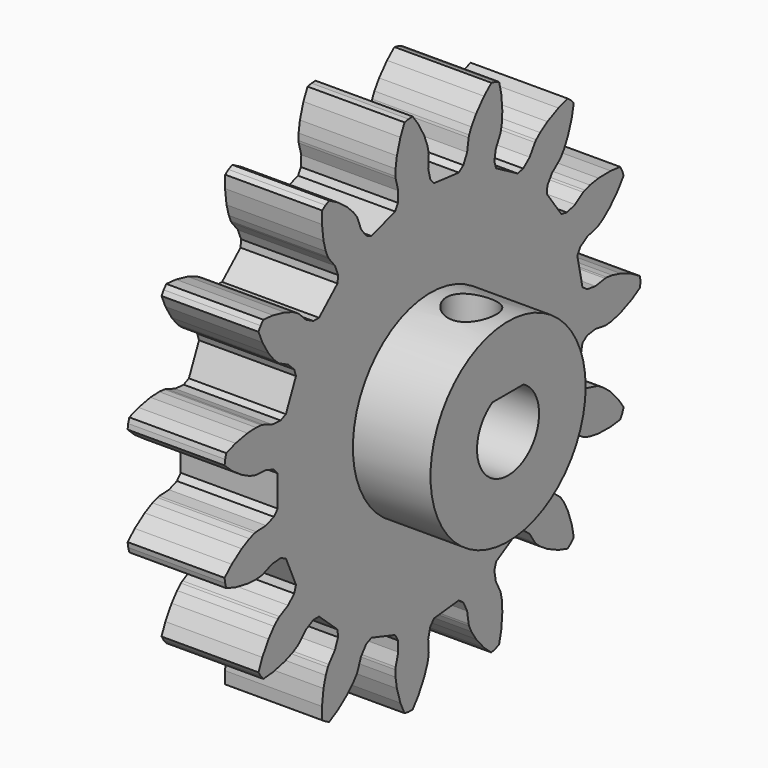
from build123d import *

# Parameters (mm, degrees)
F1_DEPTH = 12.7
F2_R     = 12.7
F3_DEPTH = 10.16
F4_R     = 3.175
F5_DEPTH = 25.4


with BuildPart() as f1:
    # F0 (on Right) → F1 (new body)
    with BuildSketch(Plane.YZ):
        Polygon((29.161105, -14.757578), (30.748224, -14.566036), (31.061889, -13.976096), (31.290412, -13.348259), (30.370755, -12.040616), (29.01536, -10.593121), (27.907767, -9.700006), (27.167434, -9.257233), (26.88877, -9.139631), (25.349098, -8.730488), (24.179454, -7.996199), (23.708233, -7.188454), (24.553926, -3.209823), (25.312929, -2.663571), (26.680109, -2.468499), (28.253106, -2.720975), (28.555493, -2.726868), (29.41193, -2.623515), (30.787035, -2.258085), (32.614006, -1.487043), (33.985987, -0.666521), (34.032596, 0), (33.985987, 0.666521), (32.614006, 1.487043), (30.787035, 2.258085), (29.41193, 2.623515), (28.555493, 2.726868), (28.253106, 2.720975), (26.680109, 2.468499), (25.312929, 2.663571), (24.553926, 3.209823), (23.708233, 7.188454), (24.179454, 7.996199), (25.349098, 8.730488), (26.88877, 9.139631), (27.167434, 9.257233), (27.907767, 9.700006), (29.01536, 10.593121), (30.370755, 12.040616), (31.290412, 13.348259), (31.061889, 13.976096), (30.748224, 14.566036), (29.161105, 14.757578), (27.178457, 14.718868), (25.773609, 14.493392), (24.949175, 14.239494), (24.675338, 14.111097), (23.341025, 13.240664), (22.012707, 12.862789), (21.097138, 13.053085), (18.706313, 16.343782), (18.808243, 17.273346), (19.578091, 18.419902), (20.818246, 19.419926), (21.024977, 19.640677), (21.521217, 20.346289), (22.169806, 21.612708), (22.819284, 23.486364), (23.127538, 25.054992), (22.663429, 25.535611), (22.136913, 25.946964), (20.609103, 25.476403), (18.813602, 24.634647), (17.621936, 23.857255), (16.972051, 23.289971), (16.774109, 23.061295), (15.909188, 21.723401), (14.849399, 20.837906), (13.935583, 20.63938), (10.413009, 22.673132), (10.128047, 23.563783), (10.365003, 24.924334), (11.091189, 26.342315), (11.190249, 26.62809), (11.356594, 27.474545), (11.433988, 28.895269), (11.26523, 30.871084), (10.908843, 32.429501), (10.289362, 32.679767), (9.641053, 32.841413), (8.436712, 31.790132), (7.138848, 30.290846), (6.366383, 29.095954), (6.003417, 28.31338), (5.915584, 28.023972), (5.66961, 26.44996), (5.06161, 25.209957), (4.307561, 24.656898), (0.262331, 25.082068), (-0.360274, 25.779832), (-0.697179, 27.119123), (-0.610514, 28.709899), (-0.636245, 29.011245), (-0.828573, 29.852188), (-1.335735, 31.181548), (-2.293518, 32.917917), (-3.252978, 34.19663), (-3.920719, 34.173312), (-4.578706, 34.057285), (-5.251323, 32.607047), (-5.827166, 30.709489), (-6.046851, 29.303726), (-6.060135, 28.441167), (-6.022645, 28.141066), (-5.607152, 26.603071), (-5.658231, 25.222987), (-6.122162, 24.411051), (-9.990607, 23.154107), (-10.843158, 23.538307), (-11.695684, 24.624792), (-12.263552, 26.113257), (-12.409627, 26.378103), (-12.927355, 27.068094), (-13.931367, 28.076271), (-15.512618, 29.272941), (-16.909212, 30.050867), (-17.509719, 29.75798), (-18.063642, 29.384371), (-18.088229, 27.785898), (-17.842509, 25.818186), (-17.471415, 24.444579), (-17.132706, 23.651235), (-16.976395, 23.392282), (-15.971266, 22.156293), (-15.456611, 20.874736), (-15.550185, 19.944283), (-18.572937, 17.222597), (-19.508038, 17.226788), (-20.728788, 17.872583), (-21.852966, 19.00141), (-22.094139, 19.183934), (-22.847757, 19.60372), (-24.175034, 20.116343), (-26.106298, 20.566431), (-27.698548, 20.709026), (-28.128036, 20.197216), (-28.482087, 19.630593), (-27.854402, 18.16034), (-26.829563, 16.46268), (-25.931876, 15.35877), (-25.299772, 14.771751), (-25.051664, 14.598802), (-23.630687, 13.878458), (-22.639274, 12.917043), (-22.34631, 12.028983), (-24.000714, 8.313115), (-24.856694, 7.936611), (-26.234568, 8.030058), (-27.720696, 8.604047), (-28.01526, 8.672703), (-28.874441, 8.749665), (-30.295469, 8.678139), (-32.242836, 8.303768), (-33.755457, 7.786421), (-33.939607, 7.144156), (-34.032596, 6.482537), (-32.861174, 5.394681), (-31.234456, 4.260621), (-29.965371, 3.61729), (-29.149142, 3.338119), (-28.852139, 3.28102), (-27.261033, 3.200933), (-25.964286, 2.725877), (-25.335433, 2.033753), (-25.335433, -2.033753), (-25.964286, -2.725877), (-27.261033, -3.200933), (-28.852139, -3.28102), (-29.149142, -3.338119), (-29.965371, -3.61729), (-31.234456, -4.260621), (-32.861174, -5.394681), (-34.032596, -6.482537), (-33.939607, -7.144156), (-33.755457, -7.786421), (-32.242836, -8.303768), (-30.295469, -8.678139), (-28.874441, -8.749665), (-28.01526, -8.672703), (-27.720696, -8.604047), (-26.234568, -8.030058), (-24.856694, -7.936611), (-24.000714, -8.313115), (-22.34631, -12.028983), (-22.639274, -12.917043), (-23.630687, -13.878458), (-25.051664, -14.598802), (-25.299772, -14.771751), (-25.931876, -15.35877), (-26.829563, -16.46268), (-27.854402, -18.16034), (-28.482087, -19.630593), (-28.128036, -20.197216), (-27.698548, -20.709026), (-26.106298, -20.566431), (-24.175034, -20.116343), (-22.847757, -19.60372), (-22.094139, -19.183934), (-21.852966, -19.00141), (-20.728788, -17.872583), (-19.508038, -17.226788), (-18.572937, -17.222597), (-15.550185, -19.944283), (-15.456611, -20.874736), (-15.971266, -22.156293), (-16.976395, -23.392282), (-17.132706, -23.651235), (-17.471415, -24.444579), (-17.842509, -25.818186), (-18.088229, -27.785898), (-18.063642, -29.384371), (-17.509719, -29.75798), (-16.909212, -30.050867), (-15.512618, -29.272941), (-13.931367, -28.076271), (-12.927355, -27.068094), (-12.409627, -26.378103), (-12.263552, -26.113257), (-11.695684, -24.624792), (-10.843158, -23.538307), (-9.990607, -23.154107), (-6.122162, -24.411051), (-5.658231, -25.222987), (-5.607152, -26.603071), (-6.022645, -28.141066), (-6.060135, -28.441167), (-6.046851, -29.303726), (-5.827166, -30.709489), (-5.251323, -32.607047), (-4.578706, -34.057285), (-3.920719, -34.173312), (-3.252978, -34.19663), (-2.293518, -32.917917), (-1.335735, -31.181548), (-0.828573, -29.852188), (-0.636245, -29.011245), (-0.610514, -28.709899), (-0.697179, -27.119123), (-0.360274, -25.779832), (0.262331, -25.082068), (4.307561, -24.656898), (5.06161, -25.209957), (5.66961, -26.44996), (5.915584, -28.023972), (6.003417, -28.31338), (6.366383, -29.095954), (7.138848, -30.290846), (8.436712, -31.790132), (9.641053, -32.841413), (10.289362, -32.679767), (10.908843, -32.429501), (11.26523, -30.871084), (11.433988, -28.895269), (11.356594, -27.474545), (11.190249, -26.62809), (11.091189, -26.342315), (10.365003, -24.924334), (10.128047, -23.563783), (10.413009, -22.673132), (13.935583, -20.63938), (14.849399, -20.837906), (15.909188, -21.723401), (16.774109, -23.061295), (16.972051, -23.289971), (17.621936, -23.857255), (18.813602, -24.634647), (20.609103, -25.476403), (22.136913, -25.946964), (22.663429, -25.535611), (23.127538, -25.054992), (22.819284, -23.486364), (22.169806, -21.612708), (21.521217, -20.346289), (21.024977, -19.640677), (20.818246, -19.419926), (19.578091, -18.419902), (18.808243, -17.273346), (18.706313, -16.343782), (21.097138, -13.053085), (22.012707, -12.862789), (23.341025, -13.240664), (24.675338, -14.111097), (24.949175, -14.239494), (25.773609, -14.493392), (27.178457, -14.718868), align=None)
        with BuildLine():
            ThreePointArc((2.217818, 4.395492), (-0.328955, -5.08), (-2.875729, 4.395492))
            Line((-2.875729, 4.395492), (2.217818, 4.395492))
        make_face(mode=Mode.SUBTRACT)
    extrude(amount=F1_DEPTH)

    # F2 (on face) → F3 (join)
    with BuildSketch(Plane.YZ.offset(12.7)):
        with Locations((-0.328955, 0)):
            Circle(F2_R)
        with BuildLine():
            ThreePointArc((2.217818, 4.395492), (-0.328955, -5.08), (-2.875729, 4.395492))
            Line((-2.875729, 4.395492), (2.217818, 4.395492))
        make_face(mode=Mode.SUBTRACT)
    extrude(amount=F3_DEPTH)

    # F4 (on Top) → F5 (cut)
    with BuildSketch(Plane.XY):
        with Locations((17.78, 0)):
            Circle(F4_R)
    extrude(amount=F5_DEPTH, mode=Mode.SUBTRACT)


solid = f1.part
